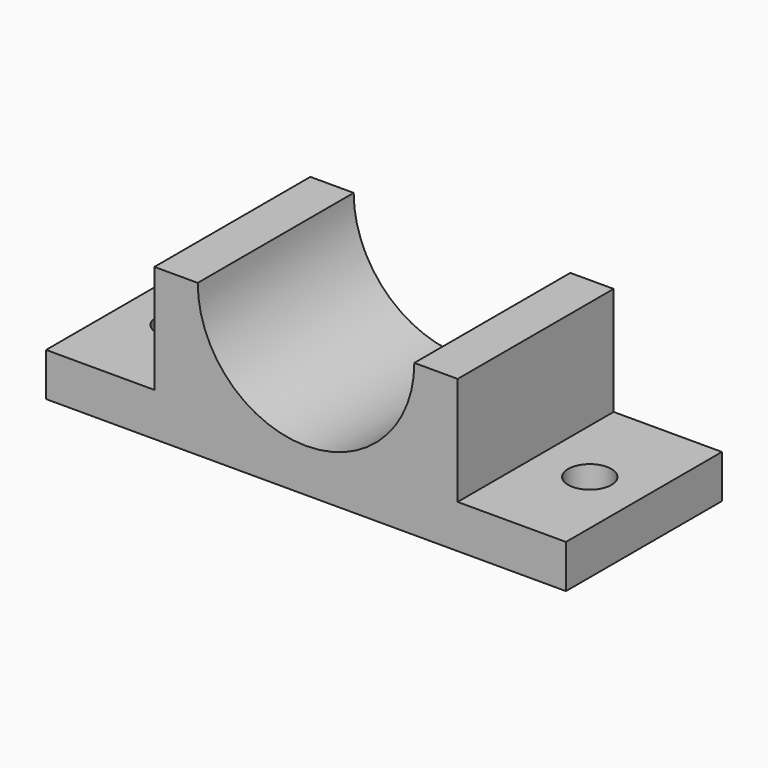
from build123d import *

# Parameters (mm, degrees)
F1_DEPTH = 57.15
F3_R     = 6.35
F2_R     = 6.35
F4_DEPTH = 12.7


with BuildPart() as f1:
    # F0 (on Front) → F1 (new body)
    with BuildSketch(Plane.XZ):
        with BuildLine():
            Line((-76.2, -22.225), (76.2, -22.225))
            Line((76.2, -22.225), (76.2, -9.525))
            Line((76.2, -9.525), (44.45, -9.525))
            Line((44.45, -9.525), (44.45, 22.225))
            Line((44.45, 22.225), (31.75, 22.225))
            ThreePointArc((31.75, 22.225), (0, -9.525), (-31.75, 22.225))
            Line((-31.75, 22.225), (-44.45, 22.225))
            Line((-44.45, 22.225), (-44.45, -9.525))
            Line((-44.45, -9.525), (-76.2, -9.525))
            Line((-76.2, -9.525), (-76.2, -22.225))
        make_face()
    extrude(amount=F1_DEPTH)

    # F3 (on face) + F2 (on face) → F4 (cut)
    with BuildSketch(Plane.XY.offset(-9.525)):
        with Locations((-60.325, -28.575)):
            Circle(F3_R)
    with BuildSketch(Plane.XY.offset(-9.525)):
        with Locations((60.325, -28.575)):
            Circle(F2_R)
    extrude(amount=-F4_DEPTH, mode=Mode.SUBTRACT)


solid = f1.part
